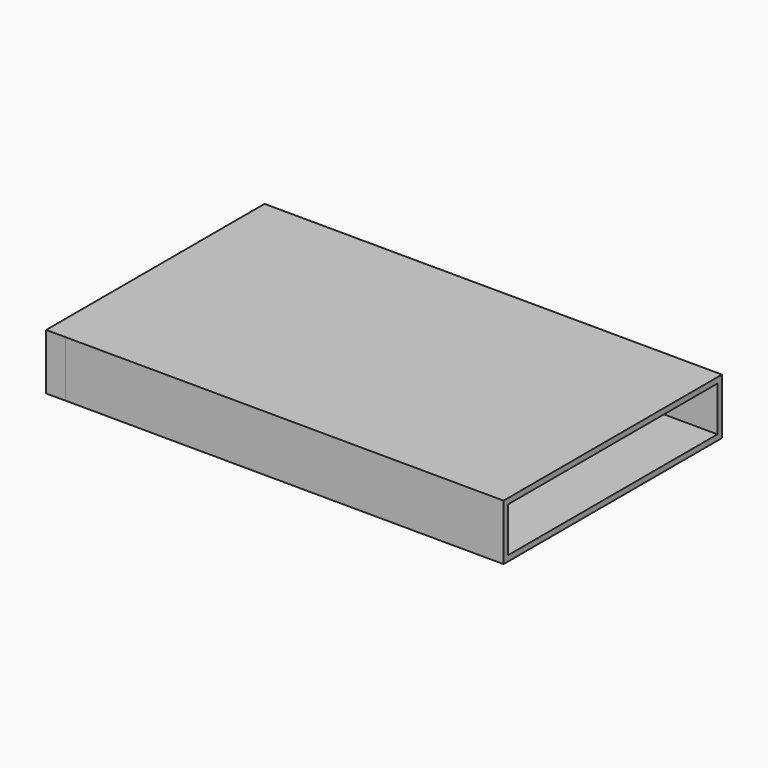
from build123d import *

# Parameters (mm, degrees)
F1_DEPTH       = 25.4
F3_T           = -2.54
F4_D           = 6.35
F4_DEPTH       = 12.7
F4_CSINK_D     = 12.7
F4_CSINK_ANGLE = 90


with BuildPart() as f1:
    # F0 (on Top) → F1 (new body)
    with BuildSketch(Plane.XY):
        Polygon((95.277585, 49.860638), (-113.311097, 50.922569), (-113.311097, -73.111692), (-104.497745, -73.111692), (95.277585, -74.128754), align=None)
    extrude(amount=F1_DEPTH)

    # F3
    f3_openings = [f1.faces().sort_by_distance(p)[0] for p in [
        (95.277585, -12.134058, 12.7),
    ]]
    offset(amount=F3_T, openings=f3_openings)

    # F4
    with Locations(Plane(origin=(-113.311097, 0, 0), x_dir=(0, -1, 0), z_dir=(-1, 0, 0))):
        with Locations((-30.990601, 16.404929)):
            CounterSinkHole(F4_D / 2, F4_CSINK_D / 2, depth=F4_DEPTH, counter_sink_angle=F4_CSINK_ANGLE)


solid = f1.part
